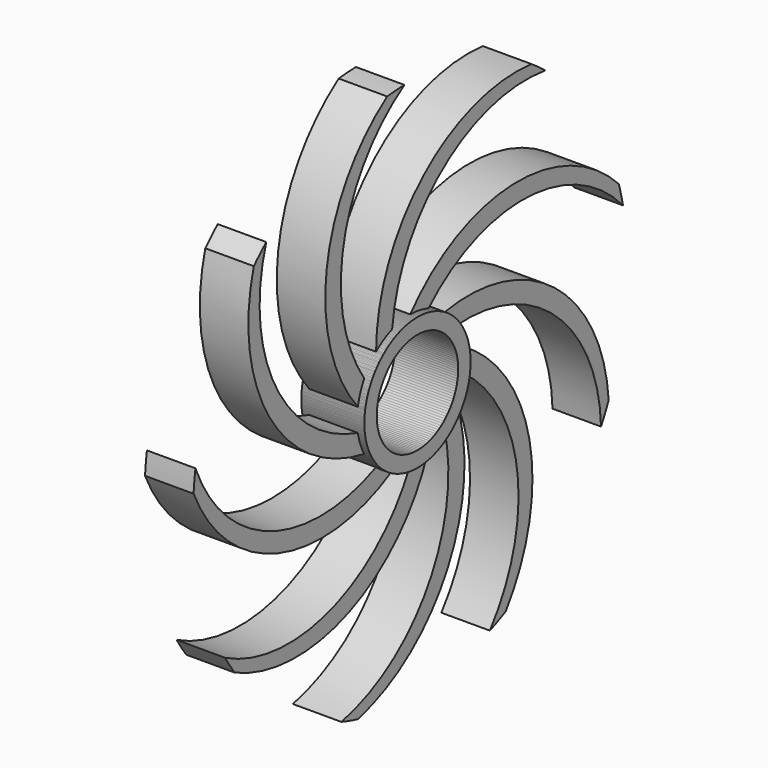
from build123d import *

# Parameters (mm, degrees)
F0_R          = 10.5
F1_DEPTH      = 6.5
F1_DEPTH_BACK = 6.5
F2_DEPTH      = 5
F2_DEPTH_BACK = 5
F3_COUNT      = 9


with BuildPart() as f1:
    # F0 (on Right) → F1 (new body, two sides)
    with BuildSketch(Plane.YZ) as f1_sk:
        with BuildLine():
            ThreePointArc((0, 13.678), (-9.671806, -9.671806), (13.678, 0))
            ThreePointArc((13.678, 0), (11.2115, 7.835174), (4.701548, 12.844576))
            ThreePointArc((4.701548, 12.844576), (2.387423, 13.468032), (0, 13.678))
        make_face()
        Circle(F0_R, mode=Mode.SUBTRACT)
    extrude(amount=F1_DEPTH)
    extrude(f1_sk.sketch, amount=-F1_DEPTH_BACK)

    # F0 (on Right) → F2 (join, two sides)
    with BuildSketch(Plane.YZ) as f2_sk:
        with BuildLine():
            ThreePointArc((0, 13.678), (2.387423, 13.468032), (4.701548, 12.844576))
            ThreePointArc((4.701548, 12.844576), (30.111275, 22.68137), (54.808153, 11.171334))
            ThreePointArc((54.808153, 11.171334), (54.320686, 13.341492), (53.747326, 15.490554))
            ThreePointArc((53.747326, 15.490554), (26.471324, 26.51477), (0, 13.678))
        make_face()
    extrude(amount=F2_DEPTH)
    extrude(f2_sk.sketch, amount=-F2_DEPTH_BACK)


with BuildPart() as f3_1:
    # F3: instance of F1
    add(f1.part.rotate(Axis((6.5, 0, 0), (-1, 0, 0)), 1 * 360 / F3_COUNT))


with BuildPart() as f3_2:
    # F3: instance of F1
    add(f1.part.rotate(Axis((6.5, 0, 0), (-1, 0, 0)), 2 * 360 / F3_COUNT))


with BuildPart() as f3_3:
    # F3: instance of F1
    add(f1.part.rotate(Axis((6.5, 0, 0), (-1, 0, 0)), 3 * 360 / F3_COUNT))


with BuildPart() as f3_4:
    # F3: instance of F1
    add(f1.part.rotate(Axis((6.5, 0, 0), (-1, 0, 0)), 4 * 360 / F3_COUNT))


with BuildPart() as f3_5:
    # F3: instance of F1
    add(f1.part.rotate(Axis((6.5, 0, 0), (-1, 0, 0)), 5 * 360 / F3_COUNT))


with BuildPart() as f3_6:
    # F3: instance of F1
    add(f1.part.rotate(Axis((6.5, 0, 0), (-1, 0, 0)), 6 * 360 / F3_COUNT))


with BuildPart() as f3_7:
    # F3: instance of F1
    add(f1.part.rotate(Axis((6.5, 0, 0), (-1, 0, 0)), 7 * 360 / F3_COUNT))


with BuildPart() as f3_8:
    # F3: instance of F1
    add(f1.part.rotate(Axis((6.5, 0, 0), (-1, 0, 0)), 8 * 360 / F3_COUNT))


solid = Compound([f1.part, f3_1.part, f3_2.part, f3_3.part, f3_4.part, f3_5.part, f3_6.part, f3_7.part, f3_8.part])
